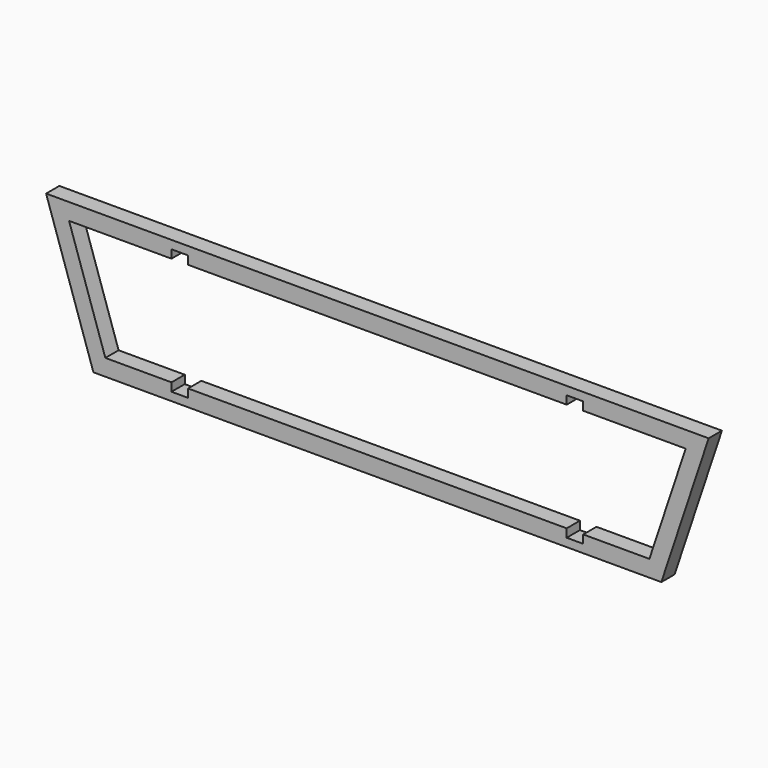
from build123d import *

# Parameters (mm, degrees)
F2_DEPTH  = 17.5
F3_DEPTH  = 17.5
F4_W      = 35
F4_H      = 17.5
F5_DEPTH  = 35
F6_W      = 35
F6_H      = 17.5
F7_DEPTH  = 35
F8_W      = 35
F8_H      = 17.5
F9_DEPTH  = 35
F10_W     = 35
F10_H     = 17.5
F11_DEPTH = 35


with BuildPart() as f2:
    # F0 (on Front) → F2 (new body, symmetric)
    with BuildSketch(Plane.XZ):
        Polygon((700, 150), (-700, 150), (-600, -150), (600, -150), align=None)
    extrude(amount=F2_DEPTH, both=True)

    # F1 (on face) → F3 (cut, symmetric)
    with BuildSketch(Plane.XZ):
        Polygon((651.440094, 115), (-651.440094, 115), (-574.773427, -115), (574.773427, -115), align=None)
    extrude(amount=F3_DEPTH, both=True, mode=Mode.SUBTRACT)

    # F4 (on face) → F5 (cut)
    with BuildSketch(Plane.XZ.offset(17.5)):
        with Locations((-417.5, -123.75)):
            Rectangle(F4_W, F4_H)
    extrude(amount=-F5_DEPTH, mode=Mode.SUBTRACT)

    # F6 (on face) → F7 (cut)
    with BuildSketch(Plane.XZ.offset(17.5)):
        with Locations((417.5, -123.75)):
            Rectangle(F6_W, F6_H)
    extrude(amount=-F7_DEPTH, mode=Mode.SUBTRACT)

    # F8 (on face) → F9 (cut)
    with BuildSketch(Plane.XZ.offset(17.5)):
        with Locations((-417.5, 123.75)):
            Rectangle(F8_W, F8_H)
    extrude(amount=-F9_DEPTH, mode=Mode.SUBTRACT)

    # F10 (on face) → F11 (cut)
    with BuildSketch(Plane.XZ.offset(17.5)):
        with Locations((417.5, 123.75)):
            Rectangle(F10_W, F10_H)
    extrude(amount=-F11_DEPTH, mode=Mode.SUBTRACT)


solid = f2.part
